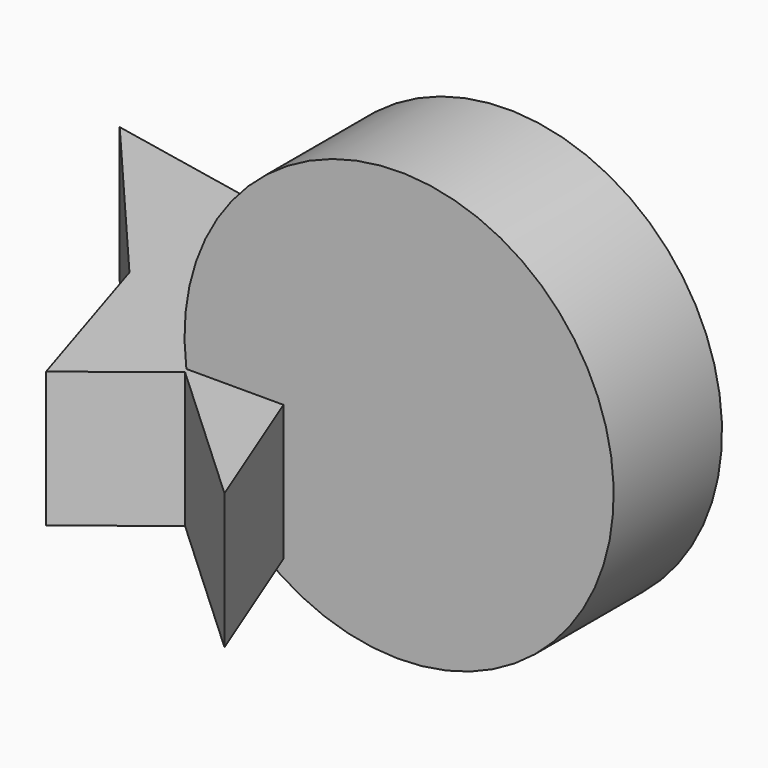
from build123d import *

# Parameters (mm, degrees)
F1_DEPTH = 25.4
F2_R     = 40.242373
F3_DEPTH = 25.4


with BuildPart() as f1:
    # F0 (on Top) → F1 (new body)
    with BuildSketch(Plane.XY):
        Polygon((-39.397303, 28.390744), (-55.411782, 62.395517), (-63.671507, 21.912564), (-95.422669, 28.390744), (-65.517075, -6.70393), (-55.411782, -38.87843), (-39.397303, -26.317464), (-10.890709, -52.716214), (-29.069951, -6.70393), (0, 0), align=None)
    extrude(amount=F1_DEPTH)

    # F2 (on Front) → F3 (join)
    with BuildSketch(Plane.XZ):
        with Locations((0, 30.719986)):
            Circle(F2_R)
    extrude(amount=F3_DEPTH)


solid = f1.part
